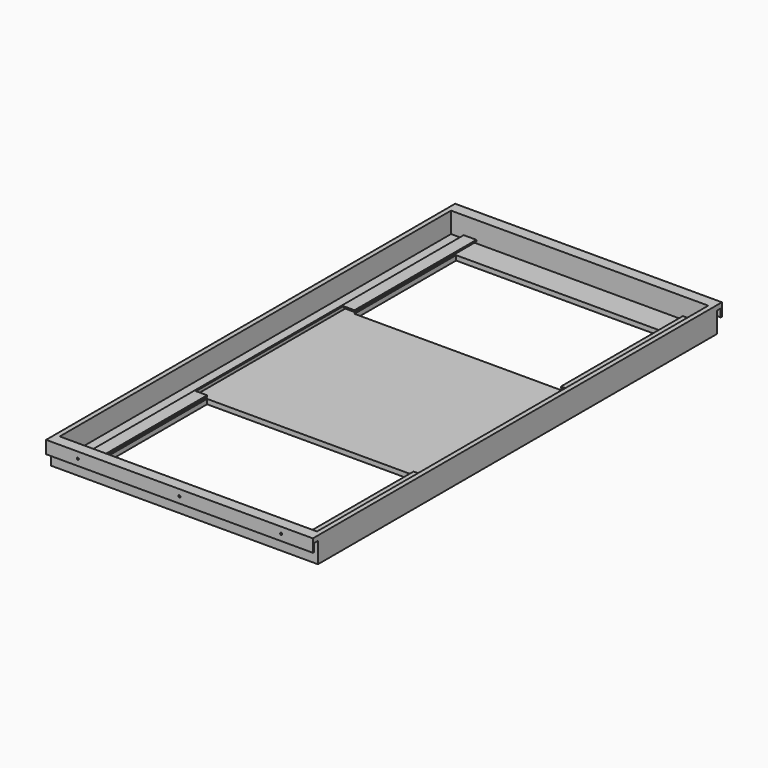
from build123d import *

# Parameters (mm, degrees)
F0_W      = 1066.8
F0_H      = 1993.9
F1_DEPTH  = 101.6
F2_W      = 1028.7
F2_H      = 1955.8
F3_DEPTH  = 82.55
F4_W      = 825.5
F4_H      = 508
F5_DEPTH  = 19.051
F6_W      = 1066.8
F6_H      = 25.4
F7_DEPTH  = 50.8
F8_W      = 19.05
F8_H      = 31.75
F9_DEPTH  = 1066.801
F11_D     = 15.875
F11_DEPTH = 12.7
F11_TIP   = 4.7693311635
F13_D     = 8.4328
F13_DEPTH = 12.7
F13_TIP   = 2.5334687141
F14_W     = 50.8
F14_H     = 1955.8
F15_DEPTH = 12.7
F16_W     = 1955.8
F16_H     = 6.35
F17_DEPTH = 44.45
F18_W     = 1955.8
F18_H     = 6.35
F19_DEPTH = 44.45
F20_W     = 44.45
F20_H     = 736.6
F21_DEPTH = 12.7


with BuildPart() as f1:
    # F0 (on Top) → F1 (new body)
    with BuildSketch(Plane.XY):
        with Locations((533.4, 996.95)):
            Rectangle(F0_W, F0_H)
    extrude(amount=F1_DEPTH)

    # F2 (on face) → F3 (cut)
    with BuildSketch(Plane.XY.offset(101.6)):
        with Locations((533.4, 996.95)):
            Rectangle(F2_W, F2_H)
    extrude(amount=-F3_DEPTH, mode=Mode.SUBTRACT)

    # F4 (on face) → F5 (cut, through all)
    with BuildSketch(Plane.XY.offset(19.05)):
        with Locations((533.4, 1619.25)):
            Rectangle(F4_W, F4_H)
        with Locations((533.4, 374.65)):
            Rectangle(F4_W, F4_H)
    extrude(amount=-F5_DEPTH, mode=Mode.SUBTRACT)

    # F6 (on face) → F7 (join)
    with BuildSketch(Plane.XY.offset(101.6)):
        with Locations((533.4, 2006.6)):
            Rectangle(F6_W, F6_H)
        with Locations((533.4, -12.7)):
            Rectangle(F6_W, F6_H)
    extrude(amount=-F7_DEPTH)

    # F8 (on face) → F9 (cut, through all)
    with BuildSketch(Plane(origin=(0, 0, 0), x_dir=(0, -1, 0), z_dir=(-1, 0, 0))):
        with Locations((-2003.425, 66.675)):
            Rectangle(F8_W, F8_H)
        with Locations((9.525, 66.675)):
            Rectangle(F8_W, F8_H)
    extrude(amount=-F9_DEPTH, mode=Mode.SUBTRACT)

    # F11
    with Locations(Plane(origin=(0, 2019.3, 0), x_dir=(-1, 0, 0), z_dir=(0, 1, 0))):
        with Locations((-939.8, 76.2), (-533.4, 76.2), (-127, 76.2)):
            Hole(F11_D / 2, depth=F11_DEPTH)
            with Locations((0, 0, -(F11_DEPTH + F11_TIP / 2))):  # 118° drill point
                Cone(0, F11_D / 2, F11_TIP, mode=Mode.SUBTRACT)

    # F13
    with Locations(Plane.XZ.offset(25.4)):
        with Locations((127, 76.2), (533.4, 76.2), (939.8, 76.2)):
            Hole(F13_D / 2, depth=F13_DEPTH)
            with Locations((0, 0, -(F13_DEPTH + F13_TIP / 2))):  # 118° drill point
                Cone(0, F13_D / 2, F13_TIP, mode=Mode.SUBTRACT)

    # F14 (on face) → F15 (join)
    with BuildSketch(Plane.XY.offset(19.05)):
        with Locations((95.25, 996.95)):
            Rectangle(F14_W, F14_H)
        with Locations((971.55, 996.95)):
            Rectangle(F14_W, F14_H)
    extrude(amount=F15_DEPTH)

    # F16 (on face) → F17 (cut)
    with BuildSketch(Plane(origin=(946.15, 0, 0), x_dir=(0, -1, 0), z_dir=(-1, 0, 0))):
        with Locations((-996.95, 22.225)):
            Rectangle(F16_W, F16_H)
    extrude(amount=-F17_DEPTH, mode=Mode.SUBTRACT)

    # F18 (on face) → F19 (cut)
    with BuildSketch(Plane.YZ.offset(120.65)):
        with Locations((996.95, 22.225)):
            Rectangle(F18_W, F18_H)
    extrude(amount=-F19_DEPTH, mode=Mode.SUBTRACT)

    # F20 (on face) → F21 (cut, through all)
    with BuildSketch(Plane.XY.offset(31.75)):
        with Locations((968.375, 996.95)):
            Rectangle(F20_W, F20_H)
        with Locations((98.425, 996.95)):
            Rectangle(F20_W, F20_H)
    extrude(amount=-F21_DEPTH, mode=Mode.SUBTRACT)


solid = f1.part
